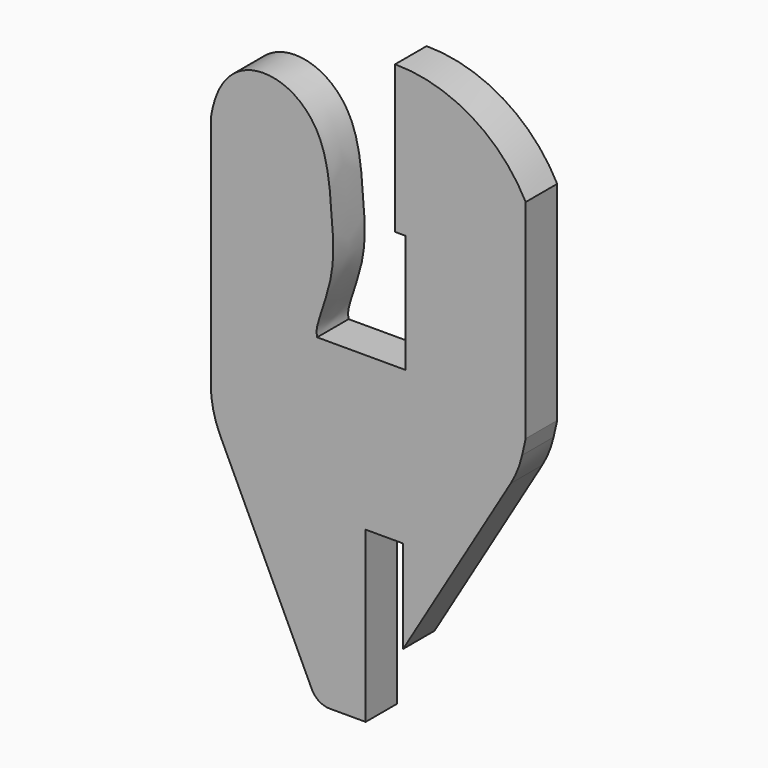
from build123d import *

# Parameters (mm, degrees)
F1_DEPTH       = 2
F2_D           = 1
F2_DEPTH       = 0.9
F2_CSINK_D     = 2.3
F2_CSINK_ANGLE = 90
F2_TIP         = 0.3004303095


with BuildPart() as f1:
    # F0 (on Front) → F1 (new body)
    with BuildSketch(Plane.XZ):
        with BuildLine():
            Line((0.1427356212, -24.8649581966), (1.9748106857, -24.8649581966))
            Line((1.9748106857, -24.8649581966), (1.9748106857, -16.2649581966))
            Line((1.9748106857, -16.2649581966), (3.8748106857, -16.2649581966))
            Line((3.8748106857, -16.2649581966), (3.8748106857, -20.9844008748))
            Line((3.8748106857, -20.9844008748), (9.3427040994, -11.8016789339))
            ThreePointArc((9.3427040994, -11.8016789339), (9.6887602043, -11.1012054746), (9.9214711848, -10.3553747335))
            Line((9.9214711848, -10.3553747335), (10.1058082655, -9.5471274995))
            Line((10.1058082655, -9.5471274995), (10.1058082655, 1.0311835213))
            ThreePointArc((10.1058082655, 1.0311835213), (7.345375095, 3.9565316182), (3.4705243162, 5.0350418034))
            Line((3.4705243162, 5.0350418034), (3.4705243162, -2.4649581966))
            Line((3.4705243162, -2.4649581966), (4.0058082655, -2.4649581966))
            Line((4.0058082655, -2.4649581966), (4.0058082655, -8.4649581966))
            Line((4.0058082655, -8.4649581966), (-0.4902702155, -8.4649581966))
            add(Edge.make_bspline(
                [(-0.4902702155, -8.4649581966), (-0.517023319, -8.3211643603), (-0.5720329528, -7.9320364569), (0.4669494209, -5.404289504), (0.2373130604, -2.7976580124), (-0.0132517858, 0.9555345554), (-2.9665248859, 3.1390070827), (-5.5625849998, 1.9167273554), (-5.8941917345, -0.4493291204)],
                knots=[0, 0, 0, 0, 0.0719418831, 0.2370473501, 0.4118815467, 0.6085233417, 0.7881773221, 1, 1, 1, 1], degree=3))
            Line((-5.8941917345, -0.4493291204), (-5.8941917345, -12.3256522935))
            ThreePointArc((-5.8941917345, -12.3256522935), (-5.7725168329, -13.4219844669), (-5.4134140407, -14.4649581966))
            Line((-5.4134140407, -14.4649581966), (-0.7611088401, -24.2928193772))
            ThreePointArc((-0.7611088401, -24.2928193772), (-0.3921189476, -24.709902331), (0.1427356212, -24.8649581966))
        make_face()
    extrude(amount=F1_DEPTH)

    # F2
    with Locations(Plane(origin=(0, 0, 0), x_dir=(1, 0, 0), z_dir=(0, 1, 0))):
        with Locations((-0.5251893143, 14.4649581966)):
            CounterSinkHole(F2_D / 2, F2_CSINK_D / 2, depth=F2_DEPTH, counter_sink_angle=F2_CSINK_ANGLE)
            with Locations((0, 0, -(F2_DEPTH + F2_TIP / 2))):  # 118° drill point
                Cone(0, F2_D / 2, F2_TIP, mode=Mode.SUBTRACT)


solid = f1.part
